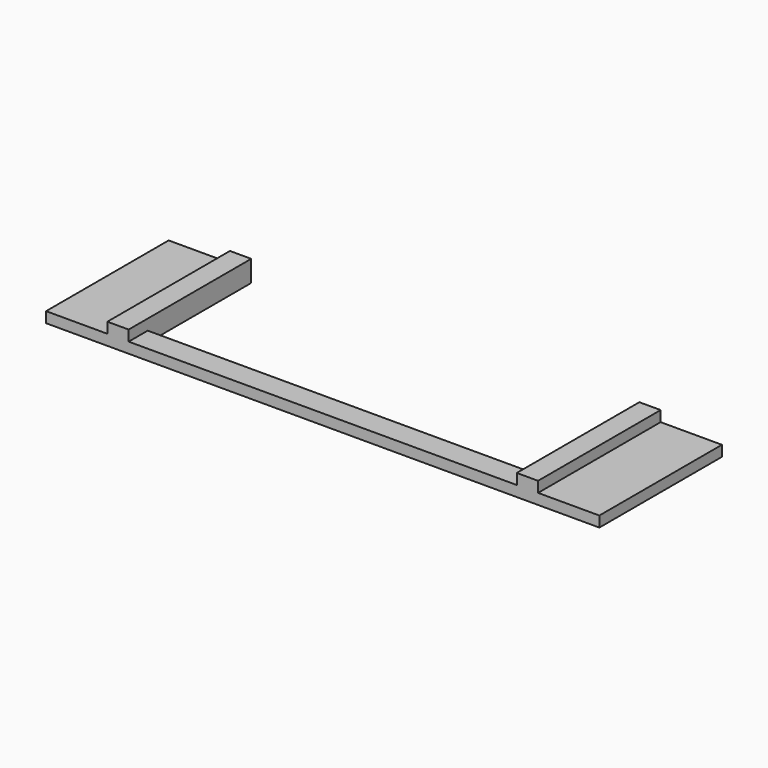
from build123d import *

# Parameters (mm, degrees)
F1_DEPTH = 1.5875
F3_DEPTH = 1.5875


with BuildPart() as f1:
    # F0 (on Top) → F1 (new body)
    with BuildSketch(Plane.XY):
        Polygon((0, 22.86), (0, 0), (12.319, 0), (70.231, 0), (82.55, 0), (82.55, 22.86), (70.231, 22.86), (70.231, 3.556), (12.319, 3.556), (12.319, 22.86), align=None)
    extrude(amount=F1_DEPTH)

    # F2 (on face) → F3 (join)
    with BuildSketch(Plane.XY.offset(1.5875)):
        Polygon((12.319, 3.556), (12.319, 22.86), (9.144, 22.86), (9.144, 0), (12.319, 0), align=None)
        Polygon((70.231, 22.86), (70.231, 3.556), (70.231, 0), (73.406, 0), (73.406, 22.86), align=None)
    extrude(amount=F3_DEPTH)


solid = f1.part
